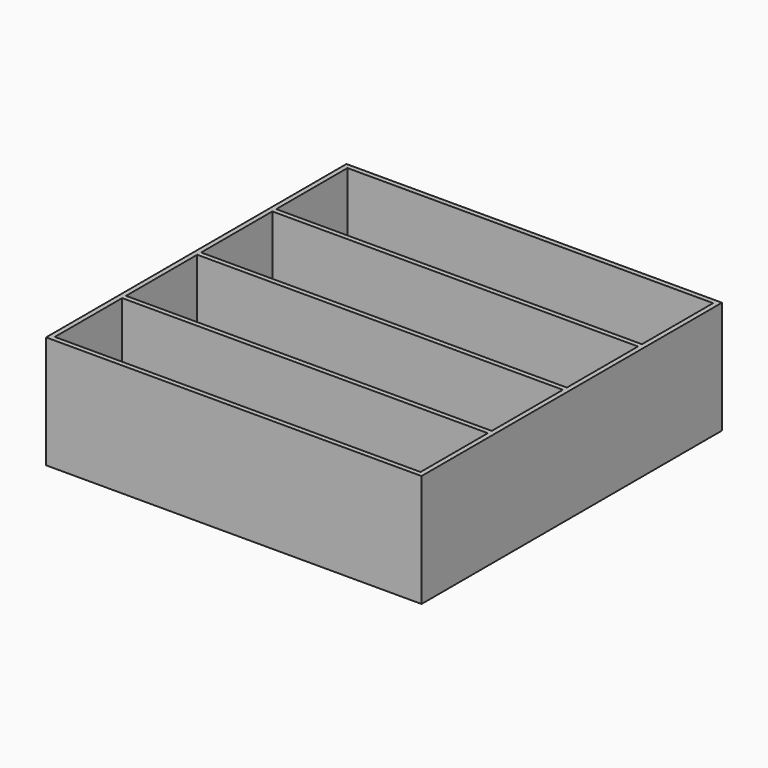
from build123d import *

# Parameters (mm, degrees)
F0_W     = 974
F0_H     = 224
F0_H_2   = 237
F1_DEPTH = 300


with BuildPart() as f1:
    # F0 (on Top) → F1 (new body)
    with BuildSketch(Plane.XY):
        Polygon((0, 13), (0, 0), (1000, 0), (1000, 13), (1000, 237), (1000, 250), (1000, 500), (1000, 750), (1000, 1000), (0, 1000), (0, 750), (0, 500), (0, 250), (0, 237), align=None)
        with Locations((500, 125)):
            Rectangle(F0_W, F0_H, mode=Mode.SUBTRACT)
        with Locations((500, 368.5)):
            Rectangle(F0_W, F0_H_2, mode=Mode.SUBTRACT)
        with Locations((500, 618.5)):
            Rectangle(F0_W, F0_H_2, mode=Mode.SUBTRACT)
        with Locations((500, 868.5)):
            Rectangle(F0_W, F0_H_2, mode=Mode.SUBTRACT)
    extrude(amount=F1_DEPTH)


solid = f1.part
